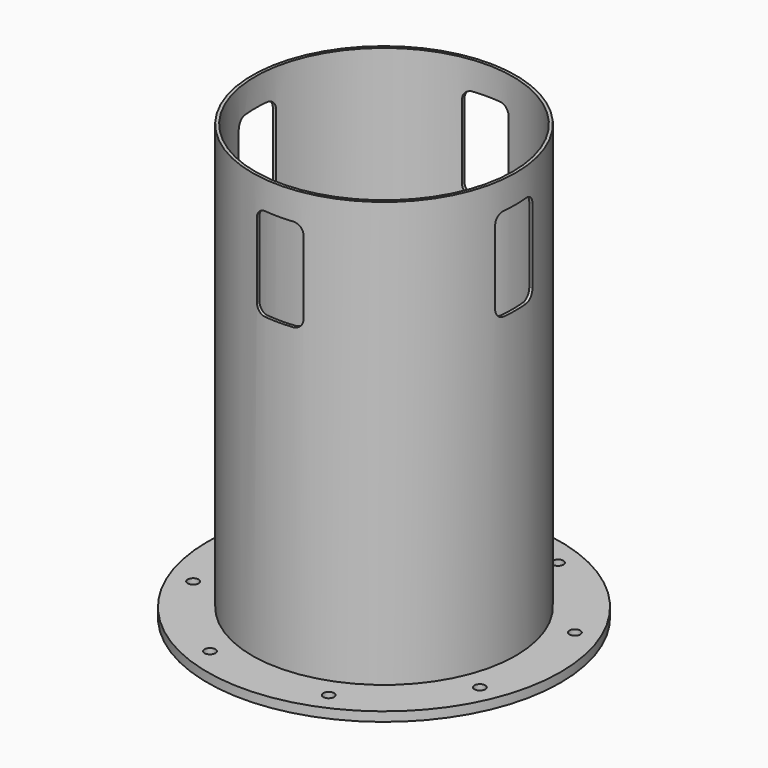
from build123d import *

# Parameters (mm, degrees)
SKETCH011_R      = 17.5
EXTRUDE005_DEPTH = 30
ARRAY004_COUNT   = 8
EXTRUDE_DEPTH    = 500
ARRAY_COUNT      = 4


with BuildPart() as extrude005:
    # Sketch011 (on Face4 of Cut) → Extrude005 (new body)
    with BuildSketch(Plane(origin=(0, 0, 2955), x_dir=(1, 0, 0), z_dir=(0, 0, -1))):
        with Locations((461.939766, 191.341716)):
            Circle(SKETCH011_R)
    extrude(amount=-EXTRUDE005_DEPTH)


with BuildPart() as array004:
    # Array004 base: copy of Extrude005
    add(extrude005.part)

    # Array004: Array004 ×8 about axis
    array004_axis = Axis((0, 0, 0), (0, 0, 1))


with BuildPart() as array004_1:
    add(array004.part)
    for i in range(1, ARRAY004_COUNT):
        add(array004.part.rotate(array004_axis, i * 360 / ARRAY004_COUNT))


with BuildPart() as array:
    # Sketch010 → Extrude (new body)
    with BuildSketch(Plane.XZ):
        with BuildLine():
            Line((-45, 3965), (45, 3965))
            ThreePointArc((45, 3965), (66.213203, 3973.786797), (75, 3995))
            Line((75, 3995), (75, 4235))
            ThreePointArc((75, 4235), (66.213203, 4256.213203), (45, 4265))
            Line((45, 4265), (-45, 4265))
            ThreePointArc((-45, 4265), (-66.213203, 4256.213203), (-75, 4235))
            Line((-75, 4235), (-75, 3995))
            ThreePointArc((-75, 3995), (-66.213203, 3973.786797), (-45, 3965))
        make_face()
    extrude(amount=EXTRUDE_DEPTH)

    # Array: Array ×4 about axis
    array_axis = Axis((0, 0, 0), (0, 0, 1))


with BuildPart() as array_1:
    add(array.part)
    for i in range(1, ARRAY_COUNT):
        add(array.part.rotate(array_axis, i * 360 / ARRAY_COUNT))


with BuildPart() as top001:
    # Sketch003 → Revolve003 (revolve)
    with BuildSketch(Plane.XZ):
        Polygon((569, 2985), (425, 2985), (425, 4355), (415, 4355), (415, 2955), (569, 2955), align=None)
    revolve(axis=Axis((0, 0, 0), (0, 0, 1)))

    # Cut: cut Array
    add(array_1.part, mode=Mode.SUBTRACT)

    # Cut004: cut Extrude005
    add(extrude005.part, mode=Mode.SUBTRACT)

    # Cut005: cut Array004
    add(array004_1.part, mode=Mode.SUBTRACT)


with BuildPart() as top001_1:
    # Cut005 placement: moved
    add(top001.part.moved(Location((0, 0, 50))))


solid = top001_1.part
